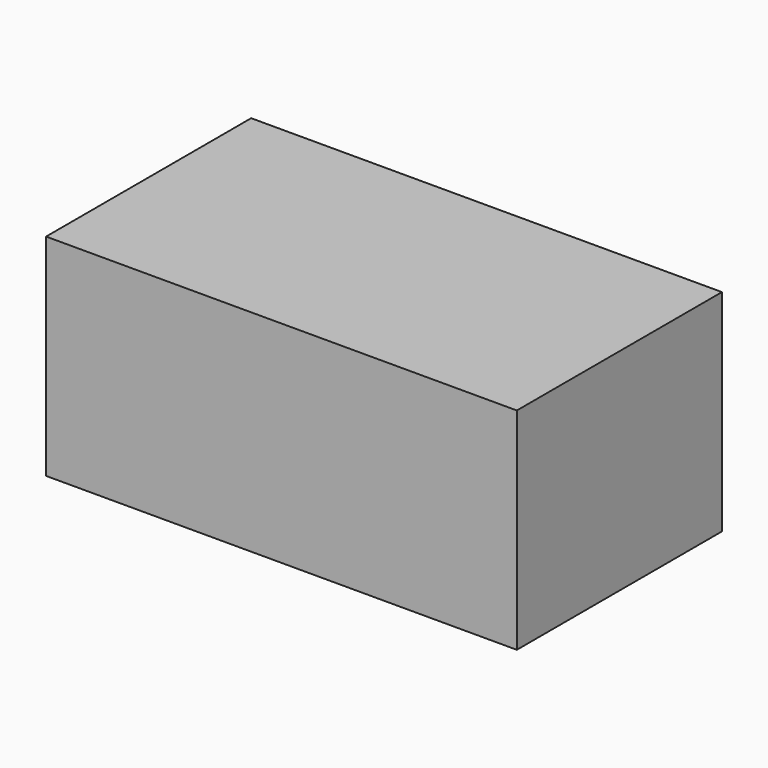
from build123d import *

# Parameters (mm, degrees)
F0_W     = 235.053807497
F0_H     = 105.2150577307
F2_DEPTH = 128
F1_W     = 235.053807497
F1_H     = 105.2150577307
F1_R     = 15.0244451301
F1_R_2   = 20.5909250724
F1_R_3   = 12.9669209458
F1_R_4   = 11.722784582


with BuildPart() as f2:
    # F0 (on Front) → F2 (new body)
    with BuildSketch(Plane.XZ):
        with Locations((5.7457536459, -11.2257748842)):
            Rectangle(F0_W, F0_H)
    extrude(amount=F2_DEPTH)


with BuildPart() as f2b:
    # F1 (on face) → F2, piece 2 (new body)
    with BuildSketch(Plane.XZ):
        with Locations((5.7457536459, -11.2257748842)):
            Rectangle(F1_W, F1_H)
        with Locations((83.9229151607, -42.4591824412)):
            Circle(F1_R, mode=Mode.SUBTRACT)
        with Locations((3.1340499409, -9.3679996207)):
            Circle(F1_R_2, mode=Mode.SUBTRACT)
        with Locations((-95.4144373536, 22.0787003636)):
            Circle(F1_R_3, mode=Mode.SUBTRACT)
        with Locations((70.6902518868, 27.1969623864)):
            Circle(F1_R_4, mode=Mode.SUBTRACT)
        with Locations((3.1340499409, -9.3679996207)):
            Circle(F1_R_2)
        with Locations((83.9229151607, -42.4591824412)):
            Circle(F1_R)
        with Locations((-95.4144373536, 22.0787003636)):
            Circle(F1_R_3)
        with Locations((70.6902518868, 27.1969623864)):
            Circle(F1_R_4)
    extrude(amount=F2_DEPTH)


solid = Compound([f2.part, f2b.part])
